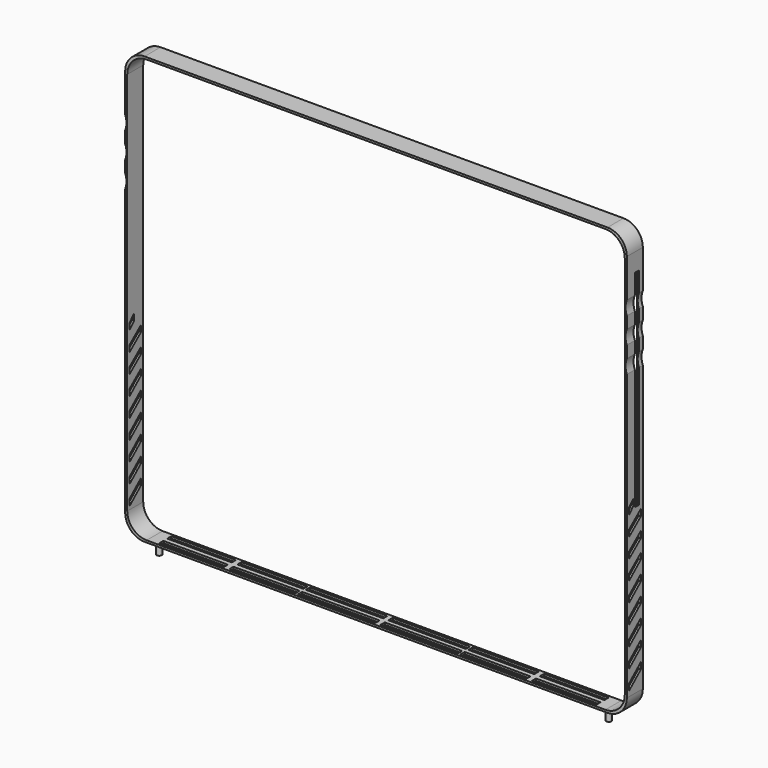
from build123d import *

# Parameters (mm, degrees)
F0_W      = 493.776
F0_H      = 420.624
F1_DEPTH  = 9.8425
F2_R      = 19.05
F3_R      = 19.05
F4_R      = 19.05
F5_R      = 19.05
F7_DEPTH  = 9.8435
F8_DEPTH  = 50.8
F9_DEPTH  = 9.8435
F11_DEPTH = 381
F12_DEPTH = 381
F13_W     = 76.2
F13_H     = 5.08
F13_W_2   = 63.499903
F13_W_3   = 64.816944
F14_DEPTH = 254
F16_DEPTH = 63.5
F17_R     = 2.479907
F18_DEPTH = 223.012
F19_DEPTH = 208.28
F20_W     = 5.08
F20_H     = 203.2
F21_DEPTH = 254


with BuildPart() as f1:
    # F0 (on Front) → F1 (new body, symmetric)
    with BuildSketch(Plane.XZ):
        Rectangle(F0_W, F0_H)
    extrude(amount=F1_DEPTH, both=True)

    # F2
    f2_edges = [f1.edges().sort_by_distance(p)[0] for p in [
        (246.888, 0, 210.312),
    ]]
    fillet(f2_edges, radius=F2_R)

    # F3
    f3_edges = [f1.edges().sort_by_distance(p)[0] for p in [
        (-246.888, 0, 210.312),
    ]]
    fillet(f3_edges, radius=F3_R)

    # F4
    f4_edges = [f1.edges().sort_by_distance(p)[0] for p in [
        (246.888, 0, -210.312),
    ]]
    fillet(f4_edges, radius=F4_R)

    # F5
    f5_edges = [f1.edges().sort_by_distance(p)[0] for p in [
        (-246.888, 0, -210.312),
    ]]
    fillet(f5_edges, radius=F5_R)

    # F6 (on Front) → F7 (cut, through all)
    with BuildSketch(Plane.XZ):
        with BuildLine():
            ThreePointArc((244.856, 189.23), (239.276384, 202.700384), (225.806, 208.28))
            Line((225.806, 208.28), (-225.806, 208.28))
            ThreePointArc((-225.806, 208.28), (-239.276384, 202.700384), (-244.856, 189.23))
            Line((-244.856, 189.23), (-244.856, -189.23))
            ThreePointArc((-244.856, -189.23), (-239.276384, -202.700384), (-225.806, -208.28))
            Line((-225.806, -208.28), (225.806, -208.28))
            ThreePointArc((225.806, -208.28), (239.276384, -202.700384), (244.856, -189.23))
            Line((244.856, -189.23), (244.856, 189.23))
        make_face()
    extrude(amount=-F7_DEPTH, mode=Mode.SUBTRACT)

    # F6 (on Front) → F8 (cut)
    with BuildSketch(Plane.XZ):
        with BuildLine():
            ThreePointArc((244.856, 189.23), (239.276384, 202.700384), (225.806, 208.28))
            Line((225.806, 208.28), (-225.806, 208.28))
            ThreePointArc((-225.806, 208.28), (-239.276384, 202.700384), (-244.856, 189.23))
            Line((-244.856, 189.23), (-244.856, -189.23))
            ThreePointArc((-244.856, -189.23), (-239.276384, -202.700384), (-225.806, -208.28))
            Line((-225.806, -208.28), (225.806, -208.28))
            ThreePointArc((225.806, -208.28), (239.276384, -202.700384), (244.856, -189.23))
            Line((244.856, -189.23), (244.856, 189.23))
        make_face()
    extrude(amount=-F8_DEPTH, mode=Mode.SUBTRACT)

    # F6 (on Front) → F9 (cut, through all)
    with BuildSketch(Plane.XZ):
        with BuildLine():
            ThreePointArc((244.856, 189.23), (239.276384, 202.700384), (225.806, 208.28))
            Line((225.806, 208.28), (-225.806, 208.28))
            ThreePointArc((-225.806, 208.28), (-239.276384, 202.700384), (-244.856, 189.23))
            Line((-244.856, 189.23), (-244.856, -189.23))
            ThreePointArc((-244.856, -189.23), (-239.276384, -202.700384), (-225.806, -208.28))
            Line((-225.806, -208.28), (225.806, -208.28))
            ThreePointArc((225.806, -208.28), (239.276384, -202.700384), (244.856, -189.23))
            Line((244.856, -189.23), (244.856, 189.23))
        make_face()
    extrude(amount=F9_DEPTH, mode=Mode.SUBTRACT)

    # F10 (on Right) → F11 (cut)
    with BuildSketch(Plane.YZ):
        Polygon((7.3025, -40.869898), (7.3025, -34.519898), (-7.3025, -46.578553), (-7.3025, -52.924015), align=None)
        Polygon((7.3025, -59.915363), (7.3025, -53.569898), (-7.3025, -65.624015), (-7.3025, -71.969477), align=None)
        Polygon((-7.3025, -27.542157), (-7.3025, -33.878553), (-1.32043, -27.528553), (-1.32043, -21.173388), align=None)
        Polygon((7.3025, -72.615363), (-7.3025, -84.669477), (-7.3025, -91.024636), (7.3025, -78.324636), align=None)
        Polygon((7.3025, -91.024636), (-7.3025, -103.724636), (-7.3025, -110.074636), (7.3025, -97.374636), align=None)
        Polygon((7.3025, -110.074636), (-7.3025, -122.774636), (-7.3025, -129.124636), (7.3025, -116.424636), align=None)
        Polygon((7.3025, -129.124636), (-7.3025, -141.824636), (-7.3025, -148.174636), (7.3025, -135.474636), align=None)
        Polygon((7.3025, -148.174636), (-7.3025, -160.874636), (-7.3025, -167.224636), (7.3025, -154.524636), align=None)
        Polygon((7.3025, -167.224636), (-7.3025, -179.924636), (-7.3025, -186.274636), (7.3025, -173.574636), align=None)
    extrude(amount=-F11_DEPTH, mode=Mode.SUBTRACT)

    # F10 (on Right) → F12 (cut)
    with BuildSketch(Plane.YZ):
        Polygon((7.3025, -40.869898), (7.3025, -34.519898), (-7.3025, -46.578553), (-7.3025, -52.924015), align=None)
        Polygon((7.3025, -59.915363), (7.3025, -53.569898), (-7.3025, -65.624015), (-7.3025, -71.969477), align=None)
        Polygon((-7.3025, -27.542157), (-7.3025, -33.878553), (-1.32043, -27.528553), (-1.32043, -21.173388), align=None)
        Polygon((7.3025, -72.615363), (-7.3025, -84.669477), (-7.3025, -91.024636), (7.3025, -78.324636), align=None)
        Polygon((7.3025, -91.024636), (-7.3025, -103.724636), (-7.3025, -110.074636), (7.3025, -97.374636), align=None)
        Polygon((7.3025, -110.074636), (-7.3025, -122.774636), (-7.3025, -129.124636), (7.3025, -116.424636), align=None)
        Polygon((7.3025, -129.124636), (-7.3025, -141.824636), (-7.3025, -148.174636), (7.3025, -135.474636), align=None)
        Polygon((7.3025, -148.174636), (-7.3025, -160.874636), (-7.3025, -167.224636), (7.3025, -154.524636), align=None)
        Polygon((7.3025, -167.224636), (-7.3025, -179.924636), (-7.3025, -186.274636), (7.3025, -173.574636), align=None)
    extrude(amount=F12_DEPTH, mode=Mode.SUBTRACT)

    # F13 (on Top) → F14 (cut)
    with BuildSketch(Plane.XY):
        with Locations((-40.64, -4.7625)):
            Rectangle(F13_W, F13_H)
        with Locations((-40.64, 4.7625)):
            Rectangle(F13_W, F13_H)
        Polygon((-215.138, -2.553835), (-215.138, -7.633835), (-151.638097, -7.523006), (-151.638097, -2.553835), align=None)
        with Locations((-183.388048, 4.7625)):
            Rectangle(F13_W_2, F13_H)
        Polygon((-146.125123, -2.553835), (-146.125123, -7.523006), (-81.281083, -7.523006), (-81.308179, -2.2225), align=None)
        with Locations((-113.716651, 4.7625)):
            Rectangle(F13_W_3, F13_H)
        with Locations((40.64, -4.7625)):
            Rectangle(F13_W, F13_H)
        with Locations((40.64, 4.7625)):
            Rectangle(F13_W, F13_H)
        Polygon((81.308179, -2.2225), (81.281083, -7.523006), (146.125123, -7.523006), (146.125123, -2.553835), align=None)
        with Locations((113.716651, 4.7625)):
            Rectangle(F13_W_3, F13_H)
        Polygon((151.638097, -2.553835), (151.638097, -7.523006), (215.138, -7.633835), (215.138, -2.553835), align=None)
        with Locations((183.388048, 4.7625)):
            Rectangle(F13_W_2, F13_H)
    extrude(amount=-F14_DEPTH, mode=Mode.SUBTRACT)

    # F15 (on Front) → F16 (cut, symmetric)
    with BuildSketch(Plane.XZ):
        with BuildLine():
            ThreePointArc((-250.468968, 134.112), (-246.872017, 140.014539), (-245.618, 146.812))
            ThreePointArc((-245.618, 146.812), (-271.465461, 164.607983), (-278.867032, 134.112))
            ThreePointArc((-278.867032, 134.112), (-264.668, 140.462), (-250.468968, 134.112))
        make_face()
        with BuildLine():
            ThreePointArc((-250.468968, 134.112), (-264.668, 127.762), (-278.867032, 134.112))
            ThreePointArc((-278.867032, 134.112), (-283.718, 121.412), (-278.867032, 108.712))
            ThreePointArc((-278.867032, 108.712), (-264.668, 115.062), (-250.468968, 108.712))
            ThreePointArc((-250.468968, 108.712), (-246.872017, 114.614539), (-245.618, 121.412))
            ThreePointArc((-245.618, 121.412), (-246.872017, 128.209461), (-250.468968, 134.112))
        make_face()
        with BuildLine():
            ThreePointArc((-250.468968, 108.712), (-264.668, 102.362), (-278.867032, 108.712))
            ThreePointArc((-278.867032, 108.712), (-271.465461, 78.216017), (-245.618, 96.012))
            ThreePointArc((-245.618, 96.012), (-246.872017, 102.809461), (-250.468968, 108.712))
        make_face()
        with BuildLine():
            ThreePointArc((250.468968, 108.712), (257.870539, 78.216017), (283.718, 96.012))
            ThreePointArc((283.718, 96.012), (282.463983, 102.809461), (278.867032, 108.712))
            ThreePointArc((278.867032, 108.712), (264.668, 102.362), (250.468968, 108.712))
        make_face()
        with BuildLine():
            ThreePointArc((250.468968, 108.712), (264.668, 115.062), (278.867032, 108.712))
            ThreePointArc((278.867032, 108.712), (282.463983, 114.614539), (283.718, 121.412))
            ThreePointArc((283.718, 121.412), (282.463983, 128.209461), (278.867032, 134.112))
            ThreePointArc((278.867032, 134.112), (264.668, 127.762), (250.468968, 134.112))
            ThreePointArc((250.468968, 134.112), (245.618, 121.412), (250.468968, 108.712))
        make_face()
        with BuildLine():
            ThreePointArc((283.718, 146.812), (257.870539, 164.607983), (250.468968, 134.112))
            ThreePointArc((250.468968, 134.112), (264.668, 140.462), (278.867032, 134.112))
            ThreePointArc((278.867032, 134.112), (282.463983, 140.014539), (283.718, 146.812))
        make_face()
    extrude(amount=F16_DEPTH, both=True, mode=Mode.SUBTRACT)

    # F17 (on Top) → F18 (join)
    with BuildSketch(Plane.XY):
        with Locations((-221.302345, 0)):
            Circle(F17_R)
        with Locations((221.302345, 0)):
            Circle(F17_R)
    extrude(amount=-F18_DEPTH)

    # F17 (on Top) → F19 (cut)
    with BuildSketch(Plane.XY):
        with Locations((-221.302345, 0)):
            Circle(F17_R)
        with Locations((221.302345, 0)):
            Circle(F17_R)
    extrude(amount=-F19_DEPTH, mode=Mode.SUBTRACT)

    # F20 (on Right) → F21 (cut)
    with BuildSketch(Plane.YZ):
        with Locations((2.54, 71.648132)):
            Rectangle(F20_W, F20_H)
    extrude(amount=F21_DEPTH, mode=Mode.SUBTRACT)


solid = f1.part
